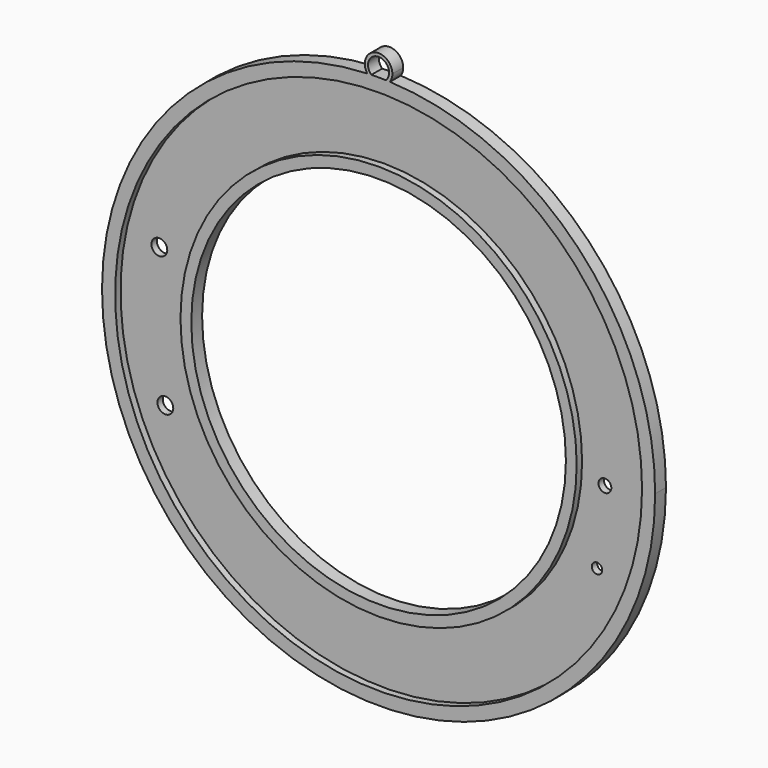
from build123d import *

# Parameters (mm, degrees)
F0_R     = 1.8579436228
F0_R_2   = 43.9670277291
F0_R_3   = 1.2310779192
F0_R_4   = 1.5030567981
F0_R_5   = 1.8602028763
F1_DEPTH = 3.175
F2_R     = 61.8386169794
F2_R_2   = 1.8579436228
F2_R_3   = 46.4973949174
F2_R_4   = 1.2310779192
F2_R_5   = 1.5030567981
F2_R_6   = 1.8602028763
F3_DEPTH = 1.5875


with BuildPart() as f1:
    # F0 (on Front) → F1 (new body)
    with BuildSketch(Plane.XZ):
        with BuildLine():
            ThreePointArc((-2.6685697481, 64.8594228795), (-44.9479569649, -46.8353196364), (64.9142973524, 0))
            ThreePointArc((64.9142973524, 0), (46.8353196364, 44.9479569649), (2.6685697481, 64.8594228795))
            ThreePointArc((2.6685697481, 64.8594228795), (0, 63.4545142311), (-2.6685697481, 64.8594228795))
        make_face()
        with Locations((-51.3194804034, -20.1798477727)):
            Circle(F0_R, mode=Mode.SUBTRACT)
        Circle(F0_R_2, mode=Mode.SUBTRACT)
        with Locations((49.991365061, -20.9139292645)):
            Circle(F0_R_3, mode=Mode.SUBTRACT)
        with Locations((51.8463733652, -3.2290274329)):
            Circle(F0_R_4, mode=Mode.SUBTRACT)
        with Locations((-52.7301807842, 12.0481377882)):
            Circle(F0_R_5, mode=Mode.SUBTRACT)
        with BuildLine():
            ThreePointArc((-2.6685697481, 64.8594228795), (0, 63.4545142311), (2.6685697481, 64.8594228795))
            ThreePointArc((2.6685697481, 64.8594228795), (2.1841098461, 64.8775436106), (1.6995281247, 64.8920457754))
            ThreePointArc((1.6995281247, 64.8920457754), (0, 64.2163073945), (-1.6995281247, 64.8920457754))
            ThreePointArc((-1.6995281247, 64.8920457754), (-2.1841098461, 64.8775436106), (-2.6685697481, 64.8594228795))
        make_face()
        with BuildLine():
            ThreePointArc((-1.6995281247, 64.8920457754), (0, 64.2163073945), (1.6995281247, 64.8920457754))
            ThreePointArc((1.6995281247, 64.8920457754), (0, 64.9142973524), (-1.6995281247, 64.8920457754))
        make_face()
        with BuildLine():
            ThreePointArc((1.6995281247, 64.8920457754), (2.1841098461, 64.8775436106), (2.6685697481, 64.8594228795))
            ThreePointArc((2.6685697481, 64.8594228795), (3.0915371739, 65.7323446538), (3.2368769389, 66.69139117))
            ThreePointArc((3.2368769389, 66.69139117), (-0.9590465162, 69.7829283439), (-2.6685697481, 64.8594228795))
            ThreePointArc((-2.6685697481, 64.8594228795), (-2.1841098461, 64.8775436106), (-1.6995281247, 64.8920457754))
            ThreePointArc((-1.6995281247, 64.8920457754), (-0.9796849515, 68.9643313566), (2.4750837755, 66.69139117))
            ThreePointArc((2.4750837755, 66.69139117), (2.2729401866, 65.7117062185), (1.6995281247, 64.8920457754))
        make_face()
    extrude(amount=F1_DEPTH)

    # F2 (on face) → F3 (cut)
    with BuildSketch(Plane.XZ.offset(3.175)):
        Circle(F2_R)
        with Locations((-51.3194804034, -20.1798477727)):
            Circle(F2_R_2, mode=Mode.SUBTRACT)
        Circle(F2_R_3, mode=Mode.SUBTRACT)
        with Locations((49.991365061, -20.9139292645)):
            Circle(F2_R_4, mode=Mode.SUBTRACT)
        with Locations((51.8463733652, -3.2290274329)):
            Circle(F2_R_5, mode=Mode.SUBTRACT)
        with Locations((-52.7301807842, 12.0481377882)):
            Circle(F2_R_6, mode=Mode.SUBTRACT)
    extrude(amount=-F3_DEPTH, mode=Mode.SUBTRACT)


solid = f1.part
